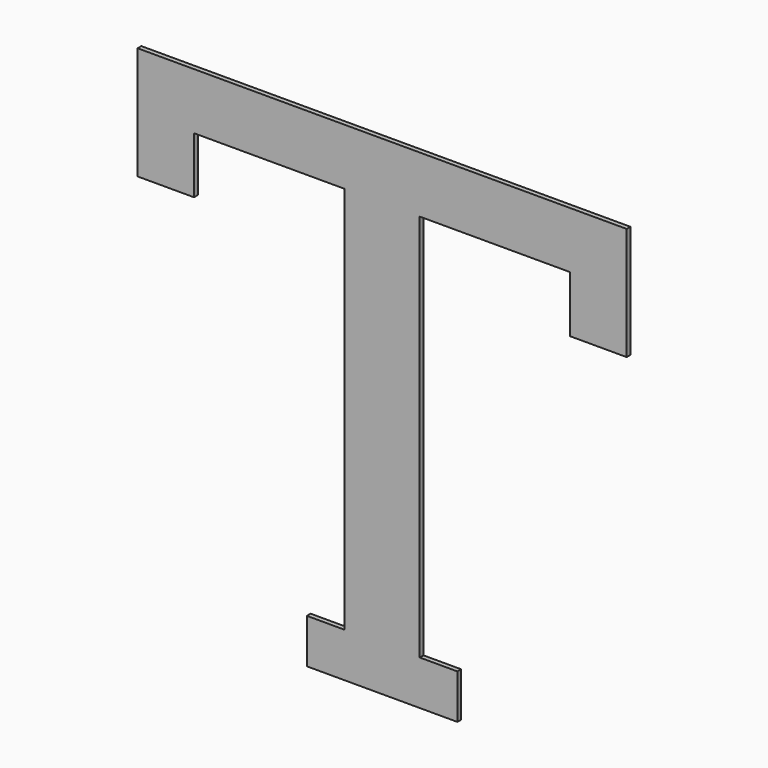
from build123d import *

# Parameters (mm, degrees)
F1_DEPTH = 3.175


with BuildPart() as f1:
    # F0 (on Front) → F1 (new body)
    with BuildSketch(Plane.XZ):
        Polygon((0, 330.2), (-25.4, 330.2), (-127, 330.2), (-165.1, 330.2), (-165.1, 292.1), (-165.1, 254), (-127, 254), (-127, 292.1), (-25.4, 292.1), (-25.4, 30.019521), (-50.8, 30.019521), (-50.8, 0), (-25.4, 0), (0, 0), (50.8, 0), (50.8, 30.019521), (25.4, 30.019521), (25.4, 292.1), (127, 292.1), (127, 254), (165.1, 254), (165.1, 330.2), align=None)
    extrude(amount=F1_DEPTH)


solid = f1.part
